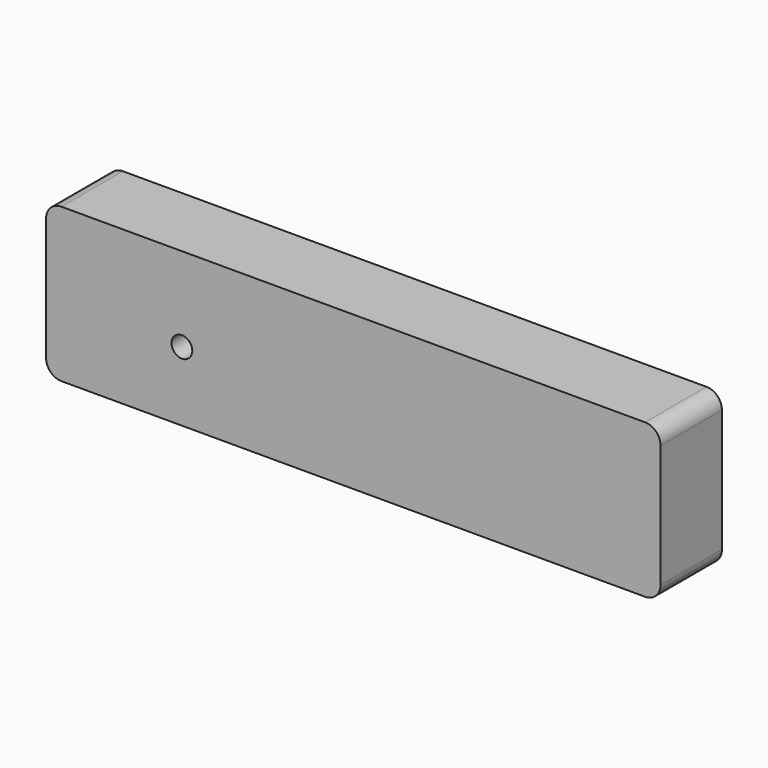
from build123d import *

# Parameters (mm, degrees)
F0_W     = 200
F0_H     = 50
F1_DEPTH = 25
F2_R     = 5
F5_D     = 6.7564


with BuildPart() as f1:
    # F0 (on Front) → F1 (new body)
    with BuildSketch(Plane.XZ):
        with Locations((0, -6.6666597634)):
            Rectangle(F0_W, F0_H)
    extrude(amount=F1_DEPTH)

    # F2
    f2_edges = [f1.edges().sort_by_distance(p)[0] for p in [
        (-100, -12.5, 18.33334),
        (100, -12.5, 18.33334),
        (100, -12.5, -31.66666),
        (-100, -12.5, -31.66666),
    ]]
    fillet(f2_edges, radius=F2_R)

    # F5 (through all)
    with Locations(Plane.XZ.offset(25)):
        with Locations((-55.7876750827, -9.0924659744)):
            Hole(F5_D / 2)


solid = f1.part
